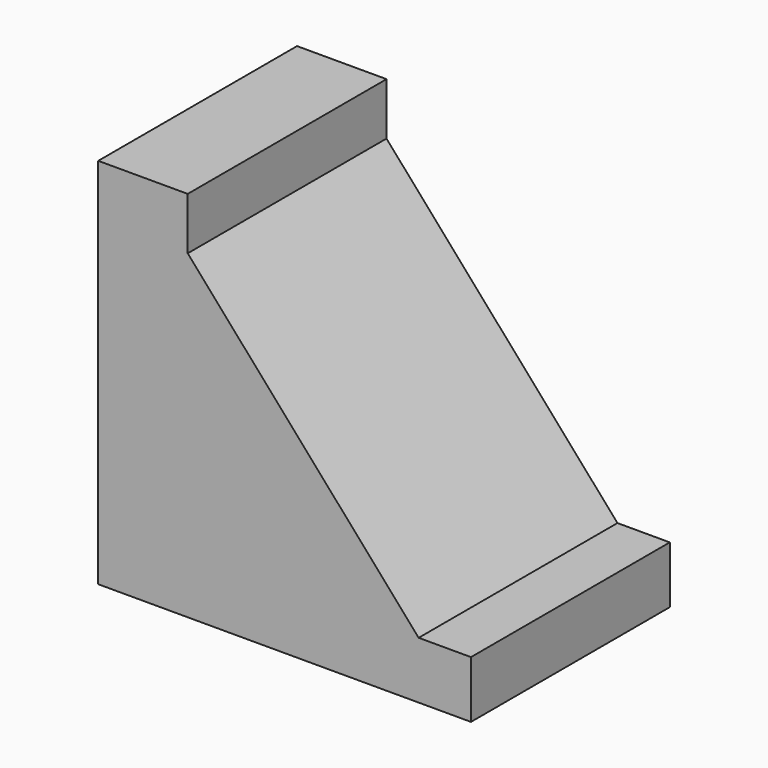
from build123d import *

# Parameters (mm, degrees)
F1_DEPTH = 38


with BuildPart() as f1:
    # F0 (on Front) → F1 (new body)
    with BuildSketch(Plane.XZ):
        Polygon((49, 8.72449), (13.685492, 49), (13.685492, 8.72449), align=None)
        Polygon((13.685492, 57), (0, 57), (0, 0), (57, 0), (57, 8.72449), (49, 8.72449), (13.685492, 8.72449), (13.685492, 49), align=None)
    extrude(amount=F1_DEPTH)


solid = f1.part
